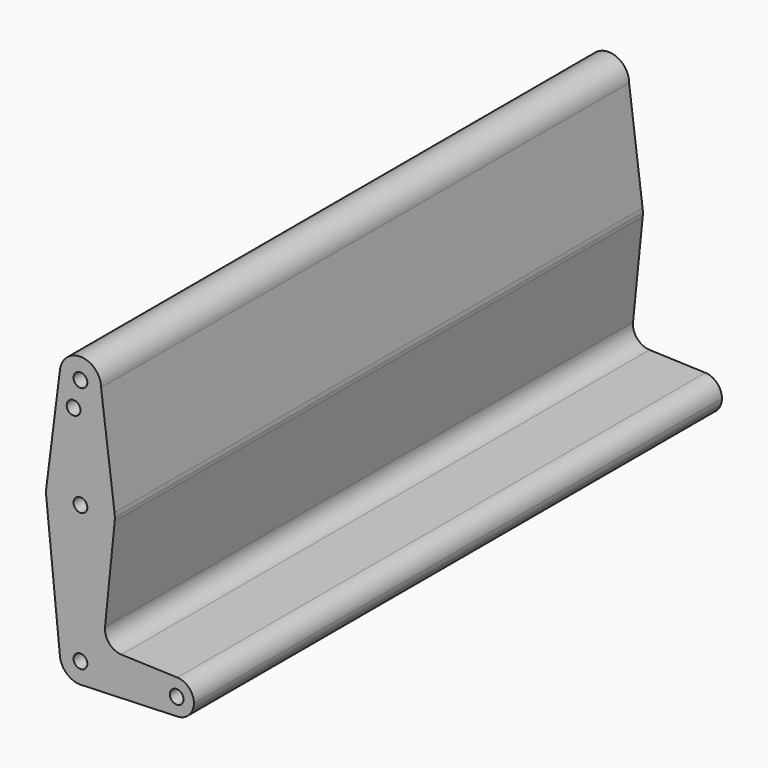
from build123d import *

# Parameters (mm, degrees)
F0_R     = 3.175
F1_DEPTH = 304.8


with BuildPart() as f1:
    # F0 (on Front) → F1 (new body)
    with BuildSketch(Plane.XZ):
        with BuildLine():
            ThreePointArc((-2.3812504012, 105.0774585104), (5.8328472862, 106.7698261948), (9.525, 114.3))
            ThreePointArc((9.525, 114.3), (0.596483242, 123.8063048942), (-9.4502929642, 115.490625))
            ThreePointArc((-9.4502929642, 115.490625), (-7.8806639116, 108.9501624966), (-2.3812504012, 105.0774585104))
        make_face()
        with Locations((0, 114.3)):
            Circle(F0_R, mode=Mode.SUBTRACT)
        with BuildLine():
            Line((15.7474569047, 65.5082893304), (9.525, 114.3))
            ThreePointArc((9.525, 114.3), (5.8328472862, 106.7698261948), (-2.3812504012, 105.0774585104))
            ThreePointArc((-2.3812504012, 105.0774585104), (-7.8806639116, 108.9501624966), (-9.4502929642, 115.490625))
            Line((-9.4502929642, 115.490625), (-15.7504882737, 65.484375))
            ThreePointArc((-15.7504882737, 65.484375), (-0.0120528461, 79.3749954245), (15.7474569047, 65.5082893304))
        make_face()
        with BuildLine():
            ThreePointArc((0, 102.0032778758), (-5.6850577659, 100.0589952287), (-2.3812504012, 105.0774585104))
            ThreePointArc((-2.3812504012, 105.0774585104), (-0.6649422341, 103.9475605229), (0, 102.0032778758))
        make_face(mode=Mode.SUBTRACT)
        with BuildLine():
            ThreePointArc((15.875, 63.5), (15.8430821396, 64.5061676396), (15.7474569047, 65.5082893304))
            ThreePointArc((15.7474569047, 65.5082893304), (-0.0120528461, 79.3749954245), (-15.7504882737, 65.484375))
            ThreePointArc((-15.7504882737, 65.484375), (-15.8737438155, 63.6997054867), (-15.7954255641, 61.9125))
            ThreePointArc((-15.7954255641, 61.9125), (0, 47.625), (15.7954255641, 61.9125))
            ThreePointArc((15.7954255641, 61.9125), (15.8550939106, 62.7052534459), (15.875, 63.5))
        make_face()
        with Locations((0, 63.5)):
            Circle(F0_R, mode=Mode.SUBTRACT)
        with BuildLine():
            ThreePointArc((15.7954255641, 61.9125), (0, 47.625), (-15.7954255641, 61.9125))
            Line((-15.7954255641, 61.9125), (-9.4772553384, -0.9525))
            ThreePointArc((-9.4772553384, -0.9525), (-0.4768479324, 9.5130563464), (9.525, 0))
            ThreePointArc((9.525, 0), (6.9705567315, -6.4912990883), (0.6773435479, -9.500885786))
            Line((0.6773435479, -9.500885786), (44.7324052746, -7.9324746146))
            ThreePointArc((44.7324052746, -7.9324746146), (36.5125, 0), (44.7324052746, 7.9324746146))
            Line((44.7324052746, 7.9324746146), (18.968327868, 8.8497055806))
            ThreePointArc((18.968327868, 8.8497055806), (13.2612039825, 11.5674628959), (11.3408358685, 17.5898921545))
            Line((11.3408358685, 17.5898921545), (15.7954255641, 61.9125))
        make_face()
        with BuildLine():
            ThreePointArc((9.525, 0), (-0.4768479324, 9.5130563464), (-9.4772553384, -0.9525))
            ThreePointArc((-9.4772553384, -0.9525), (-6.3895642457, -7.063929059), (0, -9.525))
            Line((0, -9.525), (0.6773435479, -9.500885786))
            ThreePointArc((0.6773435479, -9.500885786), (6.9705567315, -6.4912990883), (9.525, 0))
        make_face()
        Circle(F0_R, mode=Mode.SUBTRACT)
        with BuildLine():
            Line((0.6773435479, -9.500885786), (0, -9.525))
            ThreePointArc((0, -9.525), (0.3388863295, -9.5189695375), (0.6773435479, -9.500885786))
        make_face()
        with BuildLine():
            ThreePointArc((52.3875, 0), (50.1616327839, 5.5119104847), (44.7324052746, 7.9324746146))
            ThreePointArc((44.7324052746, 7.9324746146), (36.5125, 0), (44.7324052746, -7.9324746146))
            ThreePointArc((44.7324052746, -7.9324746146), (50.1616327839, -5.5119104847), (52.3875, 0))
        make_face()
        with Locations((44.45, 0)):
            Circle(F0_R, mode=Mode.SUBTRACT)
    extrude(amount=-F1_DEPTH)


solid = f1.part
